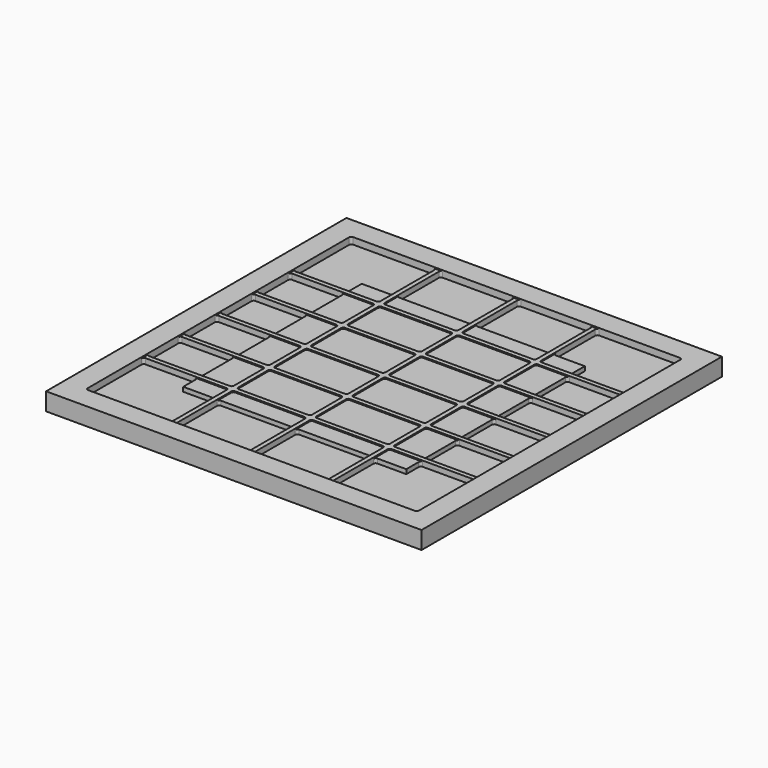
from build123d import *

# Parameters (mm, degrees)
F1_DEPTH = 7.5
F2_DEPTH = 7
F3_DEPTH = 5
F0_W     = 170
F0_H     = 170
F4_DEPTH = 8


with BuildPart() as f1:
    # F0 (on Top) → F1 (new body)
    with BuildSketch(Plane.XY):
        with BuildLine():
            Line((36.408, 43.47), (36.408, 50.5))
            Line((36.408, 50.5), (36.408, 51.5))
            Line((36.408, 51.5), (36.408, 74))
            ThreePointArc((36.408, 74), (36.700893, 74.707107), (37.408, 75))
            Line((37.408, 75), (33.408, 75))
            ThreePointArc((33.408, 75), (34.115107, 74.707107), (34.408, 74))
            Line((34.408, 74), (34.408, 51.5))
            Line((34.408, 51.5), (34.408, 50.5))
            Line((34.408, 50.5), (34.408, 43.47))
            ThreePointArc((34.408, 43.47), (34.115107, 42.762893), (33.408, 42.47))
            Line((33.408, 42.47), (2, 42.47))
            ThreePointArc((2, 42.47), (1.292893, 42.762893), (1, 43.47))
            Line((1, 43.47), (1, 50.5))
            Line((1, 50.5), (1, 51.5))
            Line((1, 51.5), (1, 74))
            ThreePointArc((1, 74), (1.292893, 74.707107), (2, 75))
            Line((2, 75), (-2, 75))
            ThreePointArc((-2, 75), (-1.292893, 74.707107), (-1, 74))
            Line((-1, 74), (-1, 51.5))
            Line((-1, 51.5), (-1, 50.5))
            Line((-1, 50.5), (-1, 43.47))
            ThreePointArc((-1, 43.47), (-1.292893, 42.762893), (-2, 42.47))
            Line((-2, 42.47), (-33.408, 42.47))
            ThreePointArc((-33.408, 42.47), (-34.115107, 42.762893), (-34.408, 43.47))
            Line((-34.408, 43.47), (-34.408, 50.5))
            Line((-34.408, 50.5), (-34.408, 51.5))
            Line((-34.408, 51.5), (-34.408, 74))
            ThreePointArc((-34.408, 74), (-34.115107, 74.707107), (-33.408, 75))
            Line((-33.408, 75), (-37.408, 75))
            ThreePointArc((-37.408, 75), (-36.700893, 74.707107), (-36.408, 74))
            Line((-36.408, 74), (-36.408, 51.5))
            Line((-36.408, 51.5), (-36.408, 50.5))
            Line((-36.408, 50.5), (-36.408, 43.47))
            ThreePointArc((-36.408, 43.47), (-36.700893, 42.762893), (-37.408, 42.47))
            Line((-37.408, 42.47), (-50.5, 42.47))
            Line((-50.5, 42.47), (-51.5, 42.47))
            Line((-51.5, 42.47), (-74, 42.47))
            ThreePointArc((-74, 42.47), (-74.707107, 42.762893), (-75, 43.47))
            Line((-75, 43.47), (-75, 39.47))
            ThreePointArc((-75, 39.47), (-74.707107, 40.177107), (-74, 40.47))
            Line((-74, 40.47), (-51.5, 40.47))
            Line((-51.5, 40.47), (-50.5, 40.47))
            Line((-50.5, 40.47), (-37.408, 40.47))
            ThreePointArc((-37.408, 40.47), (-36.700893, 40.177107), (-36.408, 39.47))
            Line((-36.408, 39.47), (-36.408, 22.735))
            ThreePointArc((-36.408, 22.735), (-36.700893, 22.027893), (-37.408, 21.735))
            Line((-37.408, 21.735), (-50.5, 21.735))
            Line((-50.5, 21.735), (-51.5, 21.735))
            Line((-51.5, 21.735), (-74, 21.735))
            ThreePointArc((-74, 21.735), (-74.707107, 22.027893), (-75, 22.735))
            Line((-75, 22.735), (-75, 18.735))
            ThreePointArc((-75, 18.735), (-74.707107, 19.442107), (-74, 19.735))
            Line((-74, 19.735), (-51.5, 19.735))
            Line((-51.5, 19.735), (-50.5, 19.735))
            Line((-50.5, 19.735), (-37.408, 19.735))
            ThreePointArc((-37.408, 19.735), (-36.700893, 19.442107), (-36.408, 18.735))
            Line((-36.408, 18.735), (-36.408, 2))
            ThreePointArc((-36.408, 2), (-36.700893, 1.292893), (-37.408, 1))
            Line((-37.408, 1), (-50.5, 1))
            Line((-50.5, 1), (-51.5, 1))
            Line((-51.5, 1), (-74, 1))
            ThreePointArc((-74, 1), (-74.707107, 1.292893), (-75, 2))
            Line((-75, 2), (-75, -2))
            ThreePointArc((-75, -2), (-74.707107, -1.292893), (-74, -1))
            Line((-74, -1), (-51.5, -1))
            Line((-51.5, -1), (-50.5, -1))
            Line((-50.5, -1), (-37.408, -1))
            ThreePointArc((-37.408, -1), (-36.700893, -1.292893), (-36.408, -2))
            Line((-36.408, -2), (-36.408, -18.735))
            ThreePointArc((-36.408, -18.735), (-36.700893, -19.442107), (-37.408, -19.735))
            Line((-37.408, -19.735), (-50.5, -19.735))
            Line((-50.5, -19.735), (-51.5, -19.735))
            Line((-51.5, -19.735), (-74, -19.735))
            ThreePointArc((-74, -19.735), (-74.707107, -19.442107), (-75, -18.735))
            Line((-75, -18.735), (-75, -22.735))
            ThreePointArc((-75, -22.735), (-74.707107, -22.027893), (-74, -21.735))
            Line((-74, -21.735), (-51.5, -21.735))
            Line((-51.5, -21.735), (-50.5, -21.735))
            Line((-50.5, -21.735), (-37.408, -21.735))
            ThreePointArc((-37.408, -21.735), (-36.700893, -22.027893), (-36.408, -22.735))
            Line((-36.408, -22.735), (-36.408, -39.47))
            ThreePointArc((-36.408, -39.47), (-36.700893, -40.177107), (-37.408, -40.47))
            Line((-37.408, -40.47), (-50.5, -40.47))
            Line((-50.5, -40.47), (-51.5, -40.47))
            Line((-51.5, -40.47), (-74, -40.47))
            ThreePointArc((-74, -40.47), (-74.707107, -40.177107), (-75, -39.47))
            Line((-75, -39.47), (-75, -43.47))
            ThreePointArc((-75, -43.47), (-74.707107, -42.762893), (-74, -42.47))
            Line((-74, -42.47), (-51.5, -42.47))
            Line((-51.5, -42.47), (-50.5, -42.47))
            Line((-50.5, -42.47), (-37.408, -42.47))
            ThreePointArc((-37.408, -42.47), (-36.700893, -42.762893), (-36.408, -43.47))
            Line((-36.408, -43.47), (-36.408, -50.5))
            Line((-36.408, -50.5), (-36.408, -51.5))
            Line((-36.408, -51.5), (-36.408, -74))
            ThreePointArc((-36.408, -74), (-36.700893, -74.707107), (-37.408, -75))
            Line((-37.408, -75), (-33.408, -75))
            ThreePointArc((-33.408, -75), (-34.115107, -74.707107), (-34.408, -74))
            Line((-34.408, -74), (-34.408, -51.5))
            Line((-34.408, -51.5), (-34.408, -50.5))
            Line((-34.408, -50.5), (-34.408, -43.47))
            ThreePointArc((-34.408, -43.47), (-34.115107, -42.762893), (-33.408, -42.47))
            Line((-33.408, -42.47), (-2, -42.47))
            ThreePointArc((-2, -42.47), (-1.292893, -42.762893), (-1, -43.47))
            Line((-1, -43.47), (-1, -50.5))
            Line((-1, -50.5), (-1, -51.5))
            Line((-1, -51.5), (-1, -74))
            ThreePointArc((-1, -74), (-1.292893, -74.707107), (-2, -75))
            Line((-2, -75), (2, -75))
            ThreePointArc((2, -75), (1.292893, -74.707107), (1, -74))
            Line((1, -74), (1, -51.5))
            Line((1, -51.5), (1, -50.5))
            Line((1, -50.5), (1, -43.47))
            ThreePointArc((1, -43.47), (1.292893, -42.762893), (2, -42.47))
            Line((2, -42.47), (33.408, -42.47))
            ThreePointArc((33.408, -42.47), (34.115107, -42.762893), (34.408, -43.47))
            Line((34.408, -43.47), (34.408, -50.5))
            Line((34.408, -50.5), (34.408, -51.5))
            Line((34.408, -51.5), (34.408, -74))
            ThreePointArc((34.408, -74), (34.115107, -74.707107), (33.408, -75))
            Line((33.408, -75), (37.408, -75))
            ThreePointArc((37.408, -75), (36.700893, -74.707107), (36.408, -74))
            Line((36.408, -74), (36.408, -51.5))
            Line((36.408, -51.5), (36.408, -50.5))
            Line((36.408, -50.5), (36.408, -43.47))
            ThreePointArc((36.408, -43.47), (36.700893, -42.762893), (37.408, -42.47))
            Line((37.408, -42.47), (50.5, -42.47))
            Line((50.5, -42.47), (51.5, -42.47))
            Line((51.5, -42.47), (74, -42.47))
            ThreePointArc((74, -42.47), (74.707107, -42.762893), (75, -43.47))
            Line((75, -43.47), (75, -39.47))
            ThreePointArc((75, -39.47), (74.707107, -40.177107), (74, -40.47))
            Line((74, -40.47), (51.5, -40.47))
            Line((51.5, -40.47), (50.5, -40.47))
            Line((50.5, -40.47), (37.408, -40.47))
            ThreePointArc((37.408, -40.47), (36.700893, -40.177107), (36.408, -39.47))
            Line((36.408, -39.47), (36.408, -22.735))
            ThreePointArc((36.408, -22.735), (36.700893, -22.027893), (37.408, -21.735))
            Line((37.408, -21.735), (50.5, -21.735))
            Line((50.5, -21.735), (51.5, -21.735))
            Line((51.5, -21.735), (74, -21.735))
            ThreePointArc((74, -21.735), (74.707107, -22.027893), (75, -22.735))
            Line((75, -22.735), (75, -18.735))
            ThreePointArc((75, -18.735), (74.707107, -19.442107), (74, -19.735))
            Line((74, -19.735), (51.5, -19.735))
            Line((51.5, -19.735), (50.5, -19.735))
            Line((50.5, -19.735), (37.408, -19.735))
            ThreePointArc((37.408, -19.735), (36.700893, -19.442107), (36.408, -18.735))
            Line((36.408, -18.735), (36.408, -2))
            ThreePointArc((36.408, -2), (36.700893, -1.292893), (37.408, -1))
            Line((37.408, -1), (50.5, -1))
            Line((50.5, -1), (51.5, -1))
            Line((51.5, -1), (74, -1))
            ThreePointArc((74, -1), (74.707107, -1.292893), (75, -2))
            Line((75, -2), (75, 2))
            ThreePointArc((75, 2), (74.707107, 1.292893), (74, 1))
            Line((74, 1), (51.5, 1))
            Line((51.5, 1), (50.5, 1))
            Line((50.5, 1), (37.408, 1))
            ThreePointArc((37.408, 1), (36.700893, 1.292893), (36.408, 2))
            Line((36.408, 2), (36.408, 18.735))
            ThreePointArc((36.408, 18.735), (36.700893, 19.442107), (37.408, 19.735))
            Line((37.408, 19.735), (50.5, 19.735))
            Line((50.5, 19.735), (51.5, 19.735))
            Line((51.5, 19.735), (74, 19.735))
            ThreePointArc((74, 19.735), (74.707107, 19.442107), (75, 18.735))
            Line((75, 18.735), (75, 22.735))
            ThreePointArc((75, 22.735), (74.707107, 22.027893), (74, 21.735))
            Line((74, 21.735), (51.5, 21.735))
            Line((51.5, 21.735), (50.5, 21.735))
            Line((50.5, 21.735), (37.408, 21.735))
            ThreePointArc((37.408, 21.735), (36.700893, 22.027893), (36.408, 22.735))
            Line((36.408, 22.735), (36.408, 39.47))
            ThreePointArc((36.408, 39.47), (36.700893, 40.177107), (37.408, 40.47))
            Line((37.408, 40.47), (50.5, 40.47))
            Line((50.5, 40.47), (51.5, 40.47))
            Line((51.5, 40.47), (74, 40.47))
            ThreePointArc((74, 40.47), (74.707107, 40.177107), (75, 39.47))
            Line((75, 39.47), (75, 43.47))
            ThreePointArc((75, 43.47), (74.707107, 42.762893), (74, 42.47))
            Line((74, 42.47), (51.5, 42.47))
            Line((51.5, 42.47), (50.5, 42.47))
            Line((50.5, 42.47), (37.408, 42.47))
            ThreePointArc((37.408, 42.47), (36.700893, 42.762893), (36.408, 43.47))
        make_face()
        with BuildLine():
            Line((-33.408, -21.735), (-2, -21.735))
            ThreePointArc((-2, -21.735), (-1.292893, -22.027893), (-1, -22.735))
            Line((-1, -22.735), (-1, -39.47))
            ThreePointArc((-1, -39.47), (-1.292893, -40.177107), (-2, -40.47))
            Line((-2, -40.47), (-33.408, -40.47))
            ThreePointArc((-33.408, -40.47), (-34.115107, -40.177107), (-34.408, -39.47))
            Line((-34.408, -39.47), (-34.408, -22.735))
            ThreePointArc((-34.408, -22.735), (-34.115107, -22.027893), (-33.408, -21.735))
        make_face(mode=Mode.SUBTRACT)
        with BuildLine():
            Line((-1, -2), (-1, -18.735))
            ThreePointArc((-1, -18.735), (-1.292893, -19.442107), (-2, -19.735))
            Line((-2, -19.735), (-33.408, -19.735))
            ThreePointArc((-33.408, -19.735), (-34.115107, -19.442107), (-34.408, -18.735))
            Line((-34.408, -18.735), (-34.408, -2))
            ThreePointArc((-34.408, -2), (-34.115107, -1.292893), (-33.408, -1))
            Line((-33.408, -1), (-2, -1))
            ThreePointArc((-2, -1), (-1.292893, -1.292893), (-1, -2))
        make_face(mode=Mode.SUBTRACT)
        with BuildLine():
            ThreePointArc((1, -22.735), (1.292893, -22.027893), (2, -21.735))
            Line((2, -21.735), (33.408, -21.735))
            ThreePointArc((33.408, -21.735), (34.115107, -22.027893), (34.408, -22.735))
            Line((34.408, -22.735), (34.408, -39.47))
            ThreePointArc((34.408, -39.47), (34.115107, -40.177107), (33.408, -40.47))
            Line((33.408, -40.47), (2, -40.47))
            ThreePointArc((2, -40.47), (1.292893, -40.177107), (1, -39.47))
            Line((1, -39.47), (1, -22.735))
        make_face(mode=Mode.SUBTRACT)
        with BuildLine():
            ThreePointArc((34.408, -18.735), (34.115107, -19.442107), (33.408, -19.735))
            Line((33.408, -19.735), (2, -19.735))
            ThreePointArc((2, -19.735), (1.292893, -19.442107), (1, -18.735))
            Line((1, -18.735), (1, -2))
            ThreePointArc((1, -2), (1.292893, -1.292893), (2, -1))
            Line((2, -1), (33.408, -1))
            ThreePointArc((33.408, -1), (34.115107, -1.292893), (34.408, -2))
            Line((34.408, -2), (34.408, -18.735))
        make_face(mode=Mode.SUBTRACT)
        with BuildLine():
            Line((-2, 1), (-33.408, 1))
            ThreePointArc((-33.408, 1), (-34.115107, 1.292893), (-34.408, 2))
            Line((-34.408, 2), (-34.408, 18.735))
            ThreePointArc((-34.408, 18.735), (-34.115107, 19.442107), (-33.408, 19.735))
            Line((-33.408, 19.735), (-2, 19.735))
            ThreePointArc((-2, 19.735), (-1.292893, 19.442107), (-1, 18.735))
            Line((-1, 18.735), (-1, 2))
            ThreePointArc((-1, 2), (-1.292893, 1.292893), (-2, 1))
        make_face(mode=Mode.SUBTRACT)
        with BuildLine():
            Line((-33.408, 40.47), (-2, 40.47))
            ThreePointArc((-2, 40.47), (-1.292893, 40.177107), (-1, 39.47))
            Line((-1, 39.47), (-1, 22.735))
            ThreePointArc((-1, 22.735), (-1.292893, 22.027893), (-2, 21.735))
            Line((-2, 21.735), (-33.408, 21.735))
            ThreePointArc((-33.408, 21.735), (-34.115107, 22.027893), (-34.408, 22.735))
            Line((-34.408, 22.735), (-34.408, 39.47))
            ThreePointArc((-34.408, 39.47), (-34.115107, 40.177107), (-33.408, 40.47))
        make_face(mode=Mode.SUBTRACT)
        with BuildLine():
            Line((33.408, 1), (2, 1))
            ThreePointArc((2, 1), (1.292893, 1.292893), (1, 2))
            Line((1, 2), (1, 18.735))
            ThreePointArc((1, 18.735), (1.292893, 19.442107), (2, 19.735))
            Line((2, 19.735), (33.408, 19.735))
            ThreePointArc((33.408, 19.735), (34.115107, 19.442107), (34.408, 18.735))
            Line((34.408, 18.735), (34.408, 2))
            ThreePointArc((34.408, 2), (34.115107, 1.292893), (33.408, 1))
        make_face(mode=Mode.SUBTRACT)
        with BuildLine():
            ThreePointArc((2, 21.735), (1.292893, 22.027893), (1, 22.735))
            Line((1, 22.735), (1, 39.47))
            ThreePointArc((1, 39.47), (1.292893, 40.177107), (2, 40.47))
            Line((2, 40.47), (33.408, 40.47))
            ThreePointArc((33.408, 40.47), (34.115107, 40.177107), (34.408, 39.47))
            Line((34.408, 39.47), (34.408, 22.735))
            ThreePointArc((34.408, 22.735), (34.115107, 22.027893), (33.408, 21.735))
            Line((33.408, 21.735), (2, 21.735))
        make_face(mode=Mode.SUBTRACT)
    extrude(amount=F1_DEPTH)

    # F0 (on Top) → F2 (join)
    with BuildSketch(Plane.XY):
        with BuildLine():
            Line((-37.408, -42.47), (-50.5, -42.47))
            Line((-50.5, -42.47), (-50.5, -43.47))
            Line((-50.5, -43.47), (-50.5, -50.5))
            Line((-50.5, -50.5), (-37.408, -50.5))
            Line((-37.408, -50.5), (-36.408, -50.5))
            Line((-36.408, -50.5), (-36.408, -43.47))
            ThreePointArc((-36.408, -43.47), (-36.700893, -42.762893), (-37.408, -42.47))
        make_face()
        with BuildLine():
            Line((-37.408, -21.735), (-50.5, -21.735))
            Line((-50.5, -21.735), (-50.5, -22.735))
            Line((-50.5, -22.735), (-50.5, -39.47))
            Line((-50.5, -39.47), (-50.5, -40.47))
            Line((-50.5, -40.47), (-37.408, -40.47))
            ThreePointArc((-37.408, -40.47), (-36.700893, -40.177107), (-36.408, -39.47))
            Line((-36.408, -39.47), (-36.408, -22.735))
            ThreePointArc((-36.408, -22.735), (-36.700893, -22.027893), (-37.408, -21.735))
        make_face()
        with BuildLine():
            Line((-37.408, -1), (-50.5, -1))
            Line((-50.5, -1), (-50.5, -2))
            Line((-50.5, -2), (-50.5, -18.735))
            Line((-50.5, -18.735), (-50.5, -19.735))
            Line((-50.5, -19.735), (-37.408, -19.735))
            ThreePointArc((-37.408, -19.735), (-36.700893, -19.442107), (-36.408, -18.735))
            Line((-36.408, -18.735), (-36.408, -2))
            ThreePointArc((-36.408, -2), (-36.700893, -1.292893), (-37.408, -1))
        make_face()
        with BuildLine():
            Line((-37.408, 19.735), (-50.5, 19.735))
            Line((-50.5, 19.735), (-50.5, 18.735))
            Line((-50.5, 18.735), (-50.5, 2))
            Line((-50.5, 2), (-50.5, 1))
            Line((-50.5, 1), (-37.408, 1))
            ThreePointArc((-37.408, 1), (-36.700893, 1.292893), (-36.408, 2))
            Line((-36.408, 2), (-36.408, 18.735))
            ThreePointArc((-36.408, 18.735), (-36.700893, 19.442107), (-37.408, 19.735))
        make_face()
        with BuildLine():
            Line((-37.408, 40.47), (-50.5, 40.47))
            Line((-50.5, 40.47), (-50.5, 39.47))
            Line((-50.5, 39.47), (-50.5, 22.735))
            Line((-50.5, 22.735), (-50.5, 21.735))
            Line((-50.5, 21.735), (-37.408, 21.735))
            ThreePointArc((-37.408, 21.735), (-36.700893, 22.027893), (-36.408, 22.735))
            Line((-36.408, 22.735), (-36.408, 39.47))
            ThreePointArc((-36.408, 39.47), (-36.700893, 40.177107), (-37.408, 40.47))
        make_face()
        with BuildLine():
            Line((-36.408, 43.47), (-36.408, 50.5))
            Line((-36.408, 50.5), (-37.408, 50.5))
            Line((-37.408, 50.5), (-50.5, 50.5))
            Line((-50.5, 50.5), (-50.5, 43.47))
            Line((-50.5, 43.47), (-50.5, 42.47))
            Line((-50.5, 42.47), (-37.408, 42.47))
            ThreePointArc((-37.408, 42.47), (-36.700893, 42.762893), (-36.408, 43.47))
        make_face()
        with BuildLine():
            Line((-1, 43.47), (-1, 50.5))
            Line((-1, 50.5), (-2, 50.5))
            Line((-2, 50.5), (-33.408, 50.5))
            Line((-33.408, 50.5), (-34.408, 50.5))
            Line((-34.408, 50.5), (-34.408, 43.47))
            ThreePointArc((-34.408, 43.47), (-34.115107, 42.762893), (-33.408, 42.47))
            Line((-33.408, 42.47), (-2, 42.47))
            ThreePointArc((-2, 42.47), (-1.292893, 42.762893), (-1, 43.47))
        make_face()
        with BuildLine():
            ThreePointArc((-1, 39.47), (-1.292893, 40.177107), (-2, 40.47))
            Line((-2, 40.47), (-33.408, 40.47))
            ThreePointArc((-33.408, 40.47), (-34.115107, 40.177107), (-34.408, 39.47))
            Line((-34.408, 39.47), (-34.408, 22.735))
            ThreePointArc((-34.408, 22.735), (-34.115107, 22.027893), (-33.408, 21.735))
            Line((-33.408, 21.735), (-2, 21.735))
            ThreePointArc((-2, 21.735), (-1.292893, 22.027893), (-1, 22.735))
            Line((-1, 22.735), (-1, 39.47))
        make_face()
        with BuildLine():
            ThreePointArc((-34.408, 2), (-34.115107, 1.292893), (-33.408, 1))
            Line((-33.408, 1), (-2, 1))
            ThreePointArc((-2, 1), (-1.292893, 1.292893), (-1, 2))
            Line((-1, 2), (-1, 18.735))
            ThreePointArc((-1, 18.735), (-1.292893, 19.442107), (-2, 19.735))
            Line((-2, 19.735), (-33.408, 19.735))
            ThreePointArc((-33.408, 19.735), (-34.115107, 19.442107), (-34.408, 18.735))
            Line((-34.408, 18.735), (-34.408, 2))
        make_face()
        with BuildLine():
            ThreePointArc((-2, -19.735), (-1.292893, -19.442107), (-1, -18.735))
            Line((-1, -18.735), (-1, -2))
            ThreePointArc((-1, -2), (-1.292893, -1.292893), (-2, -1))
            Line((-2, -1), (-33.408, -1))
            ThreePointArc((-33.408, -1), (-34.115107, -1.292893), (-34.408, -2))
            Line((-34.408, -2), (-34.408, -18.735))
            ThreePointArc((-34.408, -18.735), (-34.115107, -19.442107), (-33.408, -19.735))
            Line((-33.408, -19.735), (-2, -19.735))
        make_face()
        with BuildLine():
            ThreePointArc((-1, -22.735), (-1.292893, -22.027893), (-2, -21.735))
            Line((-2, -21.735), (-33.408, -21.735))
            ThreePointArc((-33.408, -21.735), (-34.115107, -22.027893), (-34.408, -22.735))
            Line((-34.408, -22.735), (-34.408, -39.47))
            ThreePointArc((-34.408, -39.47), (-34.115107, -40.177107), (-33.408, -40.47))
            Line((-33.408, -40.47), (-2, -40.47))
            ThreePointArc((-2, -40.47), (-1.292893, -40.177107), (-1, -39.47))
            Line((-1, -39.47), (-1, -22.735))
        make_face()
        with BuildLine():
            Line((-2, -50.5), (-1, -50.5))
            Line((-1, -50.5), (-1, -43.47))
            ThreePointArc((-1, -43.47), (-1.292893, -42.762893), (-2, -42.47))
            Line((-2, -42.47), (-33.408, -42.47))
            ThreePointArc((-33.408, -42.47), (-34.115107, -42.762893), (-34.408, -43.47))
            Line((-34.408, -43.47), (-34.408, -50.5))
            Line((-34.408, -50.5), (-33.408, -50.5))
            Line((-33.408, -50.5), (-2, -50.5))
        make_face()
        with BuildLine():
            Line((33.408, -50.5), (34.408, -50.5))
            Line((34.408, -50.5), (34.408, -43.47))
            ThreePointArc((34.408, -43.47), (34.115107, -42.762893), (33.408, -42.47))
            Line((33.408, -42.47), (2, -42.47))
            ThreePointArc((2, -42.47), (1.292893, -42.762893), (1, -43.47))
            Line((1, -43.47), (1, -50.5))
            Line((1, -50.5), (2, -50.5))
            Line((2, -50.5), (33.408, -50.5))
        make_face()
        with BuildLine():
            Line((33.408, -21.735), (2, -21.735))
            ThreePointArc((2, -21.735), (1.292893, -22.027893), (1, -22.735))
            Line((1, -22.735), (1, -39.47))
            ThreePointArc((1, -39.47), (1.292893, -40.177107), (2, -40.47))
            Line((2, -40.47), (33.408, -40.47))
            ThreePointArc((33.408, -40.47), (34.115107, -40.177107), (34.408, -39.47))
            Line((34.408, -39.47), (34.408, -22.735))
            ThreePointArc((34.408, -22.735), (34.115107, -22.027893), (33.408, -21.735))
        make_face()
        with BuildLine():
            Line((2, -19.735), (33.408, -19.735))
            ThreePointArc((33.408, -19.735), (34.115107, -19.442107), (34.408, -18.735))
            Line((34.408, -18.735), (34.408, -2))
            ThreePointArc((34.408, -2), (34.115107, -1.292893), (33.408, -1))
            Line((33.408, -1), (2, -1))
            ThreePointArc((2, -1), (1.292893, -1.292893), (1, -2))
            Line((1, -2), (1, -18.735))
            ThreePointArc((1, -18.735), (1.292893, -19.442107), (2, -19.735))
        make_face()
        with BuildLine():
            ThreePointArc((1, 2), (1.292893, 1.292893), (2, 1))
            Line((2, 1), (33.408, 1))
            ThreePointArc((33.408, 1), (34.115107, 1.292893), (34.408, 2))
            Line((34.408, 2), (34.408, 18.735))
            ThreePointArc((34.408, 18.735), (34.115107, 19.442107), (33.408, 19.735))
            Line((33.408, 19.735), (2, 19.735))
            ThreePointArc((2, 19.735), (1.292893, 19.442107), (1, 18.735))
            Line((1, 18.735), (1, 2))
        make_face()
        with BuildLine():
            Line((1, 39.47), (1, 22.735))
            ThreePointArc((1, 22.735), (1.292893, 22.027893), (2, 21.735))
            Line((2, 21.735), (33.408, 21.735))
            ThreePointArc((33.408, 21.735), (34.115107, 22.027893), (34.408, 22.735))
            Line((34.408, 22.735), (34.408, 39.47))
            ThreePointArc((34.408, 39.47), (34.115107, 40.177107), (33.408, 40.47))
            Line((33.408, 40.47), (2, 40.47))
            ThreePointArc((2, 40.47), (1.292893, 40.177107), (1, 39.47))
        make_face()
        with BuildLine():
            Line((34.408, 43.47), (34.408, 50.5))
            Line((34.408, 50.5), (33.408, 50.5))
            Line((33.408, 50.5), (2, 50.5))
            Line((2, 50.5), (1, 50.5))
            Line((1, 50.5), (1, 43.47))
            ThreePointArc((1, 43.47), (1.292893, 42.762893), (2, 42.47))
            Line((2, 42.47), (33.408, 42.47))
            ThreePointArc((33.408, 42.47), (34.115107, 42.762893), (34.408, 43.47))
        make_face()
        with BuildLine():
            Line((37.408, 50.5), (36.408, 50.5))
            Line((36.408, 50.5), (36.408, 43.47))
            ThreePointArc((36.408, 43.47), (36.700893, 42.762893), (37.408, 42.47))
            Line((37.408, 42.47), (50.5, 42.47))
            Line((50.5, 42.47), (50.5, 43.47))
            Line((50.5, 43.47), (50.5, 50.5))
            Line((50.5, 50.5), (37.408, 50.5))
        make_face()
        with BuildLine():
            Line((50.5, 39.47), (50.5, 40.47))
            Line((50.5, 40.47), (37.408, 40.47))
            ThreePointArc((37.408, 40.47), (36.700893, 40.177107), (36.408, 39.47))
            Line((36.408, 39.47), (36.408, 22.735))
            ThreePointArc((36.408, 22.735), (36.700893, 22.027893), (37.408, 21.735))
            Line((37.408, 21.735), (50.5, 21.735))
            Line((50.5, 21.735), (50.5, 22.735))
            Line((50.5, 22.735), (50.5, 39.47))
        make_face()
        with BuildLine():
            Line((50.5, 18.735), (50.5, 19.735))
            Line((50.5, 19.735), (37.408, 19.735))
            ThreePointArc((37.408, 19.735), (36.700893, 19.442107), (36.408, 18.735))
            Line((36.408, 18.735), (36.408, 2))
            ThreePointArc((36.408, 2), (36.700893, 1.292893), (37.408, 1))
            Line((37.408, 1), (50.5, 1))
            Line((50.5, 1), (50.5, 2))
            Line((50.5, 2), (50.5, 18.735))
        make_face()
        with BuildLine():
            Line((50.5, -2), (50.5, -1))
            Line((50.5, -1), (37.408, -1))
            ThreePointArc((37.408, -1), (36.700893, -1.292893), (36.408, -2))
            Line((36.408, -2), (36.408, -18.735))
            ThreePointArc((36.408, -18.735), (36.700893, -19.442107), (37.408, -19.735))
            Line((37.408, -19.735), (50.5, -19.735))
            Line((50.5, -19.735), (50.5, -18.735))
            Line((50.5, -18.735), (50.5, -2))
        make_face()
        with BuildLine():
            Line((50.5, -22.735), (50.5, -21.735))
            Line((50.5, -21.735), (37.408, -21.735))
            ThreePointArc((37.408, -21.735), (36.700893, -22.027893), (36.408, -22.735))
            Line((36.408, -22.735), (36.408, -39.47))
            ThreePointArc((36.408, -39.47), (36.700893, -40.177107), (37.408, -40.47))
            Line((37.408, -40.47), (50.5, -40.47))
            Line((50.5, -40.47), (50.5, -39.47))
            Line((50.5, -39.47), (50.5, -22.735))
        make_face()
        with BuildLine():
            Line((50.5, -43.47), (50.5, -42.47))
            Line((50.5, -42.47), (37.408, -42.47))
            ThreePointArc((37.408, -42.47), (36.700893, -42.762893), (36.408, -43.47))
            Line((36.408, -43.47), (36.408, -50.5))
            Line((36.408, -50.5), (37.408, -50.5))
            Line((37.408, -50.5), (50.5, -50.5))
            Line((50.5, -50.5), (50.5, -43.47))
        make_face()
        with BuildLine():
            Line((-36.408, 50.5), (-36.408, 51.5))
            ThreePointArc((-36.408, 51.5), (-36.700893, 50.792893), (-37.408, 50.5))
            Line((-37.408, 50.5), (-36.408, 50.5))
        make_face()
        with BuildLine():
            ThreePointArc((-33.408, 50.5), (-34.115107, 50.792893), (-34.408, 51.5))
            Line((-34.408, 51.5), (-34.408, 50.5))
            Line((-34.408, 50.5), (-33.408, 50.5))
        make_face()
        with BuildLine():
            Line((-50.5, 42.47), (-50.5, 43.47))
            ThreePointArc((-50.5, 43.47), (-50.792893, 42.762893), (-51.5, 42.47))
            Line((-51.5, 42.47), (-50.5, 42.47))
        make_face()
        with BuildLine():
            Line((-50.5, 40.47), (-51.5, 40.47))
            ThreePointArc((-51.5, 40.47), (-50.792893, 40.177107), (-50.5, 39.47))
            Line((-50.5, 39.47), (-50.5, 40.47))
        make_face()
        with BuildLine():
            ThreePointArc((-50.5, 22.735), (-50.792893, 22.027893), (-51.5, 21.735))
            Line((-51.5, 21.735), (-50.5, 21.735))
            Line((-50.5, 21.735), (-50.5, 22.735))
        make_face()
        with BuildLine():
            Line((-50.5, 19.735), (-51.5, 19.735))
            ThreePointArc((-51.5, 19.735), (-50.792893, 19.442107), (-50.5, 18.735))
            Line((-50.5, 18.735), (-50.5, 19.735))
        make_face()
        with BuildLine():
            Line((-50.5, -1), (-51.5, -1))
            ThreePointArc((-51.5, -1), (-50.792893, -1.292893), (-50.5, -2))
            Line((-50.5, -2), (-50.5, -1))
        make_face()
        with BuildLine():
            ThreePointArc((-50.5, 2), (-50.792893, 1.292893), (-51.5, 1))
            Line((-51.5, 1), (-50.5, 1))
            Line((-50.5, 1), (-50.5, 2))
        make_face()
        with BuildLine():
            ThreePointArc((-50.5, -18.735), (-50.792893, -19.442107), (-51.5, -19.735))
            Line((-51.5, -19.735), (-50.5, -19.735))
            Line((-50.5, -19.735), (-50.5, -18.735))
        make_face()
        with BuildLine():
            Line((-50.5, -21.735), (-51.5, -21.735))
            ThreePointArc((-51.5, -21.735), (-50.792893, -22.027893), (-50.5, -22.735))
            Line((-50.5, -22.735), (-50.5, -21.735))
        make_face()
        with BuildLine():
            ThreePointArc((-50.5, -39.47), (-50.792893, -40.177107), (-51.5, -40.47))
            Line((-51.5, -40.47), (-50.5, -40.47))
            Line((-50.5, -40.47), (-50.5, -39.47))
        make_face()
        with BuildLine():
            Line((-50.5, -42.47), (-51.5, -42.47))
            ThreePointArc((-51.5, -42.47), (-50.792893, -42.762893), (-50.5, -43.47))
            Line((-50.5, -43.47), (-50.5, -42.47))
        make_face()
        with BuildLine():
            ThreePointArc((-37.408, -50.5), (-36.700893, -50.792893), (-36.408, -51.5))
            Line((-36.408, -51.5), (-36.408, -50.5))
            Line((-36.408, -50.5), (-37.408, -50.5))
        make_face()
        with BuildLine():
            Line((-34.408, -50.5), (-34.408, -51.5))
            ThreePointArc((-34.408, -51.5), (-34.115107, -50.792893), (-33.408, -50.5))
            Line((-33.408, -50.5), (-34.408, -50.5))
        make_face()
        with BuildLine():
            Line((1, -50.5), (1, -51.5))
            ThreePointArc((1, -51.5), (1.292893, -50.792893), (2, -50.5))
            Line((2, -50.5), (1, -50.5))
        make_face()
        with BuildLine():
            ThreePointArc((-2, -50.5), (-1.292893, -50.792893), (-1, -51.5))
            Line((-1, -51.5), (-1, -50.5))
            Line((-1, -50.5), (-2, -50.5))
        make_face()
        with BuildLine():
            ThreePointArc((36.408, -51.5), (36.700893, -50.792893), (37.408, -50.5))
            Line((37.408, -50.5), (36.408, -50.5))
            Line((36.408, -50.5), (36.408, -51.5))
        make_face()
        with BuildLine():
            ThreePointArc((33.408, -50.5), (34.115107, -50.792893), (34.408, -51.5))
            Line((34.408, -51.5), (34.408, -50.5))
            Line((34.408, -50.5), (33.408, -50.5))
        make_face()
        with BuildLine():
            ThreePointArc((50.5, -43.47), (50.792893, -42.762893), (51.5, -42.47))
            Line((51.5, -42.47), (50.5, -42.47))
            Line((50.5, -42.47), (50.5, -43.47))
        make_face()
        with BuildLine():
            Line((50.5, -40.47), (51.5, -40.47))
            ThreePointArc((51.5, -40.47), (50.792893, -40.177107), (50.5, -39.47))
            Line((50.5, -39.47), (50.5, -40.47))
        make_face()
        with BuildLine():
            Line((50.5, -19.735), (51.5, -19.735))
            ThreePointArc((51.5, -19.735), (50.792893, -19.442107), (50.5, -18.735))
            Line((50.5, -18.735), (50.5, -19.735))
        make_face()
        with BuildLine():
            ThreePointArc((50.5, -22.735), (50.792893, -22.027893), (51.5, -21.735))
            Line((51.5, -21.735), (50.5, -21.735))
            Line((50.5, -21.735), (50.5, -22.735))
        make_face()
        with BuildLine():
            Line((50.5, 1), (51.5, 1))
            ThreePointArc((51.5, 1), (50.792893, 1.292893), (50.5, 2))
            Line((50.5, 2), (50.5, 1))
        make_face()
        with BuildLine():
            ThreePointArc((50.5, -2), (50.792893, -1.292893), (51.5, -1))
            Line((51.5, -1), (50.5, -1))
            Line((50.5, -1), (50.5, -2))
        make_face()
        with BuildLine():
            Line((50.5, 21.735), (51.5, 21.735))
            ThreePointArc((51.5, 21.735), (50.792893, 22.027893), (50.5, 22.735))
            Line((50.5, 22.735), (50.5, 21.735))
        make_face()
        with BuildLine():
            ThreePointArc((50.5, 18.735), (50.792893, 19.442107), (51.5, 19.735))
            Line((51.5, 19.735), (50.5, 19.735))
            Line((50.5, 19.735), (50.5, 18.735))
        make_face()
        with BuildLine():
            Line((50.5, 43.47), (50.5, 42.47))
            Line((50.5, 42.47), (51.5, 42.47))
            ThreePointArc((51.5, 42.47), (50.792893, 42.762893), (50.5, 43.47))
        make_face()
        with BuildLine():
            ThreePointArc((50.5, 39.47), (50.792893, 40.177107), (51.5, 40.47))
            Line((51.5, 40.47), (50.5, 40.47))
            Line((50.5, 40.47), (50.5, 39.47))
        make_face()
        with BuildLine():
            Line((36.408, 51.5), (36.408, 50.5))
            Line((36.408, 50.5), (37.408, 50.5))
            ThreePointArc((37.408, 50.5), (36.700893, 50.792893), (36.408, 51.5))
        make_face()
        with BuildLine():
            Line((34.408, 50.5), (34.408, 51.5))
            ThreePointArc((34.408, 51.5), (34.115107, 50.792893), (33.408, 50.5))
            Line((33.408, 50.5), (34.408, 50.5))
        make_face()
        with BuildLine():
            Line((-1, 50.5), (-1, 51.5))
            ThreePointArc((-1, 51.5), (-1.292893, 50.792893), (-2, 50.5))
            Line((-2, 50.5), (-1, 50.5))
        make_face()
        with BuildLine():
            ThreePointArc((2, 50.5), (1.292893, 50.792893), (1, 51.5))
            Line((1, 51.5), (1, 50.5))
            Line((1, 50.5), (2, 50.5))
        make_face()
    extrude(amount=F2_DEPTH)

    # F0 (on Top) → F3 (join)
    with BuildSketch(Plane.XY):
        with BuildLine():
            ThreePointArc((-74, -42.47), (-74.707107, -42.762893), (-75, -43.47))
            Line((-75, -43.47), (-75, -74))
            ThreePointArc((-75, -74), (-74.707107, -74.707107), (-74, -75))
            Line((-74, -75), (-37.408, -75))
            ThreePointArc((-37.408, -75), (-36.700893, -74.707107), (-36.408, -74))
            Line((-36.408, -74), (-36.408, -51.5))
            ThreePointArc((-36.408, -51.5), (-36.700893, -50.792893), (-37.408, -50.5))
            Line((-37.408, -50.5), (-50.5, -50.5))
            Line((-50.5, -50.5), (-50.5, -43.47))
            ThreePointArc((-50.5, -43.47), (-50.792893, -42.762893), (-51.5, -42.47))
            Line((-51.5, -42.47), (-74, -42.47))
        make_face()
        with BuildLine():
            ThreePointArc((-74, -21.735), (-74.707107, -22.027893), (-75, -22.735))
            Line((-75, -22.735), (-75, -39.47))
            ThreePointArc((-75, -39.47), (-74.707107, -40.177107), (-74, -40.47))
            Line((-74, -40.47), (-51.5, -40.47))
            ThreePointArc((-51.5, -40.47), (-50.792893, -40.177107), (-50.5, -39.47))
            Line((-50.5, -39.47), (-50.5, -22.735))
            ThreePointArc((-50.5, -22.735), (-50.792893, -22.027893), (-51.5, -21.735))
            Line((-51.5, -21.735), (-74, -21.735))
        make_face()
        with BuildLine():
            ThreePointArc((-74, -1), (-74.707107, -1.292893), (-75, -2))
            Line((-75, -2), (-75, -18.735))
            ThreePointArc((-75, -18.735), (-74.707107, -19.442107), (-74, -19.735))
            Line((-74, -19.735), (-51.5, -19.735))
            ThreePointArc((-51.5, -19.735), (-50.792893, -19.442107), (-50.5, -18.735))
            Line((-50.5, -18.735), (-50.5, -2))
            ThreePointArc((-50.5, -2), (-50.792893, -1.292893), (-51.5, -1))
            Line((-51.5, -1), (-74, -1))
        make_face()
        with BuildLine():
            ThreePointArc((-74, 19.735), (-74.707107, 19.442107), (-75, 18.735))
            Line((-75, 18.735), (-75, 2))
            ThreePointArc((-75, 2), (-74.707107, 1.292893), (-74, 1))
            Line((-74, 1), (-51.5, 1))
            ThreePointArc((-51.5, 1), (-50.792893, 1.292893), (-50.5, 2))
            Line((-50.5, 2), (-50.5, 18.735))
            ThreePointArc((-50.5, 18.735), (-50.792893, 19.442107), (-51.5, 19.735))
            Line((-51.5, 19.735), (-74, 19.735))
        make_face()
        with BuildLine():
            ThreePointArc((-74, 40.47), (-74.707107, 40.177107), (-75, 39.47))
            Line((-75, 39.47), (-75, 22.735))
            ThreePointArc((-75, 22.735), (-74.707107, 22.027893), (-74, 21.735))
            Line((-74, 21.735), (-51.5, 21.735))
            ThreePointArc((-51.5, 21.735), (-50.792893, 22.027893), (-50.5, 22.735))
            Line((-50.5, 22.735), (-50.5, 39.47))
            ThreePointArc((-50.5, 39.47), (-50.792893, 40.177107), (-51.5, 40.47))
            Line((-51.5, 40.47), (-74, 40.47))
        make_face()
        with BuildLine():
            ThreePointArc((-36.408, 74), (-36.700893, 74.707107), (-37.408, 75))
            Line((-37.408, 75), (-74, 75))
            ThreePointArc((-74, 75), (-74.707107, 74.707107), (-75, 74))
            Line((-75, 74), (-75, 43.47))
            ThreePointArc((-75, 43.47), (-74.707107, 42.762893), (-74, 42.47))
            Line((-74, 42.47), (-51.5, 42.47))
            ThreePointArc((-51.5, 42.47), (-50.792893, 42.762893), (-50.5, 43.47))
            Line((-50.5, 43.47), (-50.5, 50.5))
            Line((-50.5, 50.5), (-37.408, 50.5))
            ThreePointArc((-37.408, 50.5), (-36.700893, 50.792893), (-36.408, 51.5))
            Line((-36.408, 51.5), (-36.408, 74))
        make_face()
        with BuildLine():
            ThreePointArc((-1, 74), (-1.292893, 74.707107), (-2, 75))
            Line((-2, 75), (-33.408, 75))
            ThreePointArc((-33.408, 75), (-34.115107, 74.707107), (-34.408, 74))
            Line((-34.408, 74), (-34.408, 51.5))
            ThreePointArc((-34.408, 51.5), (-34.115107, 50.792893), (-33.408, 50.5))
            Line((-33.408, 50.5), (-2, 50.5))
            ThreePointArc((-2, 50.5), (-1.292893, 50.792893), (-1, 51.5))
            Line((-1, 51.5), (-1, 74))
        make_face()
        with BuildLine():
            ThreePointArc((34.408, 74), (34.115107, 74.707107), (33.408, 75))
            Line((33.408, 75), (2, 75))
            ThreePointArc((2, 75), (1.292893, 74.707107), (1, 74))
            Line((1, 74), (1, 51.5))
            ThreePointArc((1, 51.5), (1.292893, 50.792893), (2, 50.5))
            Line((2, 50.5), (33.408, 50.5))
            ThreePointArc((33.408, 50.5), (34.115107, 50.792893), (34.408, 51.5))
            Line((34.408, 51.5), (34.408, 74))
        make_face()
        with BuildLine():
            ThreePointArc((36.408, 51.5), (36.700893, 50.792893), (37.408, 50.5))
            Line((37.408, 50.5), (50.5, 50.5))
            Line((50.5, 50.5), (50.5, 43.47))
            ThreePointArc((50.5, 43.47), (50.792893, 42.762893), (51.5, 42.47))
            Line((51.5, 42.47), (74, 42.47))
            ThreePointArc((74, 42.47), (74.707107, 42.762893), (75, 43.47))
            Line((75, 43.47), (75, 74))
            ThreePointArc((75, 74), (74.707107, 74.707107), (74, 75))
            Line((74, 75), (37.408, 75))
            ThreePointArc((37.408, 75), (36.700893, 74.707107), (36.408, 74))
            Line((36.408, 74), (36.408, 51.5))
        make_face()
        with BuildLine():
            Line((75, 22.735), (75, 39.47))
            ThreePointArc((75, 39.47), (74.707107, 40.177107), (74, 40.47))
            Line((74, 40.47), (51.5, 40.47))
            ThreePointArc((51.5, 40.47), (50.792893, 40.177107), (50.5, 39.47))
            Line((50.5, 39.47), (50.5, 22.735))
            ThreePointArc((50.5, 22.735), (50.792893, 22.027893), (51.5, 21.735))
            Line((51.5, 21.735), (74, 21.735))
            ThreePointArc((74, 21.735), (74.707107, 22.027893), (75, 22.735))
        make_face()
        with BuildLine():
            Line((75, 2), (75, 18.735))
            ThreePointArc((75, 18.735), (74.707107, 19.442107), (74, 19.735))
            Line((74, 19.735), (51.5, 19.735))
            ThreePointArc((51.5, 19.735), (50.792893, 19.442107), (50.5, 18.735))
            Line((50.5, 18.735), (50.5, 2))
            ThreePointArc((50.5, 2), (50.792893, 1.292893), (51.5, 1))
            Line((51.5, 1), (74, 1))
            ThreePointArc((74, 1), (74.707107, 1.292893), (75, 2))
        make_face()
        with BuildLine():
            Line((75, -18.735), (75, -2))
            ThreePointArc((75, -2), (74.707107, -1.292893), (74, -1))
            Line((74, -1), (51.5, -1))
            ThreePointArc((51.5, -1), (50.792893, -1.292893), (50.5, -2))
            Line((50.5, -2), (50.5, -18.735))
            ThreePointArc((50.5, -18.735), (50.792893, -19.442107), (51.5, -19.735))
            Line((51.5, -19.735), (74, -19.735))
            ThreePointArc((74, -19.735), (74.707107, -19.442107), (75, -18.735))
        make_face()
        with BuildLine():
            Line((75, -39.47), (75, -22.735))
            ThreePointArc((75, -22.735), (74.707107, -22.027893), (74, -21.735))
            Line((74, -21.735), (51.5, -21.735))
            ThreePointArc((51.5, -21.735), (50.792893, -22.027893), (50.5, -22.735))
            Line((50.5, -22.735), (50.5, -39.47))
            ThreePointArc((50.5, -39.47), (50.792893, -40.177107), (51.5, -40.47))
            Line((51.5, -40.47), (74, -40.47))
            ThreePointArc((74, -40.47), (74.707107, -40.177107), (75, -39.47))
        make_face()
        with BuildLine():
            Line((75, -74), (75, -43.47))
            ThreePointArc((75, -43.47), (74.707107, -42.762893), (74, -42.47))
            Line((74, -42.47), (51.5, -42.47))
            ThreePointArc((51.5, -42.47), (50.792893, -42.762893), (50.5, -43.47))
            Line((50.5, -43.47), (50.5, -50.5))
            Line((50.5, -50.5), (37.408, -50.5))
            ThreePointArc((37.408, -50.5), (36.700893, -50.792893), (36.408, -51.5))
            Line((36.408, -51.5), (36.408, -74))
            ThreePointArc((36.408, -74), (36.700893, -74.707107), (37.408, -75))
            Line((37.408, -75), (74, -75))
            ThreePointArc((74, -75), (74.707107, -74.707107), (75, -74))
        make_face()
        with BuildLine():
            Line((2, -75), (33.408, -75))
            ThreePointArc((33.408, -75), (34.115107, -74.707107), (34.408, -74))
            Line((34.408, -74), (34.408, -51.5))
            ThreePointArc((34.408, -51.5), (34.115107, -50.792893), (33.408, -50.5))
            Line((33.408, -50.5), (2, -50.5))
            ThreePointArc((2, -50.5), (1.292893, -50.792893), (1, -51.5))
            Line((1, -51.5), (1, -74))
            ThreePointArc((1, -74), (1.292893, -74.707107), (2, -75))
        make_face()
        with BuildLine():
            Line((-33.408, -75), (-2, -75))
            ThreePointArc((-2, -75), (-1.292893, -74.707107), (-1, -74))
            Line((-1, -74), (-1, -51.5))
            ThreePointArc((-1, -51.5), (-1.292893, -50.792893), (-2, -50.5))
            Line((-2, -50.5), (-33.408, -50.5))
            ThreePointArc((-33.408, -50.5), (-34.115107, -50.792893), (-34.408, -51.5))
            Line((-34.408, -51.5), (-34.408, -74))
            ThreePointArc((-34.408, -74), (-34.115107, -74.707107), (-33.408, -75))
        make_face()
        with BuildLine():
            Line((-50.5, 42.47), (-50.5, 43.47))
            ThreePointArc((-50.5, 43.47), (-50.792893, 42.762893), (-51.5, 42.47))
            Line((-51.5, 42.47), (-50.5, 42.47))
        make_face()
        with BuildLine():
            Line((-50.5, 40.47), (-51.5, 40.47))
            ThreePointArc((-51.5, 40.47), (-50.792893, 40.177107), (-50.5, 39.47))
            Line((-50.5, 39.47), (-50.5, 40.47))
        make_face()
        with BuildLine():
            Line((-36.408, 50.5), (-36.408, 51.5))
            ThreePointArc((-36.408, 51.5), (-36.700893, 50.792893), (-37.408, 50.5))
            Line((-37.408, 50.5), (-36.408, 50.5))
        make_face()
        with BuildLine():
            ThreePointArc((-33.408, 50.5), (-34.115107, 50.792893), (-34.408, 51.5))
            Line((-34.408, 51.5), (-34.408, 50.5))
            Line((-34.408, 50.5), (-33.408, 50.5))
        make_face()
        with BuildLine():
            ThreePointArc((-50.5, 22.735), (-50.792893, 22.027893), (-51.5, 21.735))
            Line((-51.5, 21.735), (-50.5, 21.735))
            Line((-50.5, 21.735), (-50.5, 22.735))
        make_face()
        with BuildLine():
            Line((-50.5, 19.735), (-51.5, 19.735))
            ThreePointArc((-51.5, 19.735), (-50.792893, 19.442107), (-50.5, 18.735))
            Line((-50.5, 18.735), (-50.5, 19.735))
        make_face()
        with BuildLine():
            ThreePointArc((-50.5, 2), (-50.792893, 1.292893), (-51.5, 1))
            Line((-51.5, 1), (-50.5, 1))
            Line((-50.5, 1), (-50.5, 2))
        make_face()
        with BuildLine():
            Line((-50.5, -1), (-51.5, -1))
            ThreePointArc((-51.5, -1), (-50.792893, -1.292893), (-50.5, -2))
            Line((-50.5, -2), (-50.5, -1))
        make_face()
        with BuildLine():
            ThreePointArc((-50.5, -18.735), (-50.792893, -19.442107), (-51.5, -19.735))
            Line((-51.5, -19.735), (-50.5, -19.735))
            Line((-50.5, -19.735), (-50.5, -18.735))
        make_face()
        with BuildLine():
            Line((-50.5, -21.735), (-51.5, -21.735))
            ThreePointArc((-51.5, -21.735), (-50.792893, -22.027893), (-50.5, -22.735))
            Line((-50.5, -22.735), (-50.5, -21.735))
        make_face()
        with BuildLine():
            Line((-50.5, -42.47), (-51.5, -42.47))
            ThreePointArc((-51.5, -42.47), (-50.792893, -42.762893), (-50.5, -43.47))
            Line((-50.5, -43.47), (-50.5, -42.47))
        make_face()
        with BuildLine():
            ThreePointArc((-50.5, -39.47), (-50.792893, -40.177107), (-51.5, -40.47))
            Line((-51.5, -40.47), (-50.5, -40.47))
            Line((-50.5, -40.47), (-50.5, -39.47))
        make_face()
        with BuildLine():
            ThreePointArc((-37.408, -50.5), (-36.700893, -50.792893), (-36.408, -51.5))
            Line((-36.408, -51.5), (-36.408, -50.5))
            Line((-36.408, -50.5), (-37.408, -50.5))
        make_face()
        with BuildLine():
            Line((-34.408, -50.5), (-34.408, -51.5))
            ThreePointArc((-34.408, -51.5), (-34.115107, -50.792893), (-33.408, -50.5))
            Line((-33.408, -50.5), (-34.408, -50.5))
        make_face()
        with BuildLine():
            ThreePointArc((-2, -50.5), (-1.292893, -50.792893), (-1, -51.5))
            Line((-1, -51.5), (-1, -50.5))
            Line((-1, -50.5), (-2, -50.5))
        make_face()
        with BuildLine():
            Line((1, -50.5), (1, -51.5))
            ThreePointArc((1, -51.5), (1.292893, -50.792893), (2, -50.5))
            Line((2, -50.5), (1, -50.5))
        make_face()
        with BuildLine():
            ThreePointArc((33.408, -50.5), (34.115107, -50.792893), (34.408, -51.5))
            Line((34.408, -51.5), (34.408, -50.5))
            Line((34.408, -50.5), (33.408, -50.5))
        make_face()
        with BuildLine():
            ThreePointArc((36.408, -51.5), (36.700893, -50.792893), (37.408, -50.5))
            Line((37.408, -50.5), (36.408, -50.5))
            Line((36.408, -50.5), (36.408, -51.5))
        make_face()
        with BuildLine():
            Line((50.5, -40.47), (51.5, -40.47))
            ThreePointArc((51.5, -40.47), (50.792893, -40.177107), (50.5, -39.47))
            Line((50.5, -39.47), (50.5, -40.47))
        make_face()
        with BuildLine():
            ThreePointArc((50.5, -43.47), (50.792893, -42.762893), (51.5, -42.47))
            Line((51.5, -42.47), (50.5, -42.47))
            Line((50.5, -42.47), (50.5, -43.47))
        make_face()
        with BuildLine():
            Line((50.5, -19.735), (51.5, -19.735))
            ThreePointArc((51.5, -19.735), (50.792893, -19.442107), (50.5, -18.735))
            Line((50.5, -18.735), (50.5, -19.735))
        make_face()
        with BuildLine():
            ThreePointArc((50.5, -22.735), (50.792893, -22.027893), (51.5, -21.735))
            Line((51.5, -21.735), (50.5, -21.735))
            Line((50.5, -21.735), (50.5, -22.735))
        make_face()
        with BuildLine():
            Line((50.5, 1), (51.5, 1))
            ThreePointArc((51.5, 1), (50.792893, 1.292893), (50.5, 2))
            Line((50.5, 2), (50.5, 1))
        make_face()
        with BuildLine():
            ThreePointArc((50.5, -2), (50.792893, -1.292893), (51.5, -1))
            Line((51.5, -1), (50.5, -1))
            Line((50.5, -1), (50.5, -2))
        make_face()
        with BuildLine():
            ThreePointArc((50.5, 18.735), (50.792893, 19.442107), (51.5, 19.735))
            Line((51.5, 19.735), (50.5, 19.735))
            Line((50.5, 19.735), (50.5, 18.735))
        make_face()
        with BuildLine():
            Line((50.5, 21.735), (51.5, 21.735))
            ThreePointArc((51.5, 21.735), (50.792893, 22.027893), (50.5, 22.735))
            Line((50.5, 22.735), (50.5, 21.735))
        make_face()
        with BuildLine():
            Line((50.5, 43.47), (50.5, 42.47))
            Line((50.5, 42.47), (51.5, 42.47))
            ThreePointArc((51.5, 42.47), (50.792893, 42.762893), (50.5, 43.47))
        make_face()
        with BuildLine():
            ThreePointArc((50.5, 39.47), (50.792893, 40.177107), (51.5, 40.47))
            Line((51.5, 40.47), (50.5, 40.47))
            Line((50.5, 40.47), (50.5, 39.47))
        make_face()
        with BuildLine():
            Line((36.408, 51.5), (36.408, 50.5))
            Line((36.408, 50.5), (37.408, 50.5))
            ThreePointArc((37.408, 50.5), (36.700893, 50.792893), (36.408, 51.5))
        make_face()
        with BuildLine():
            Line((34.408, 50.5), (34.408, 51.5))
            ThreePointArc((34.408, 51.5), (34.115107, 50.792893), (33.408, 50.5))
            Line((33.408, 50.5), (34.408, 50.5))
        make_face()
        with BuildLine():
            ThreePointArc((2, 50.5), (1.292893, 50.792893), (1, 51.5))
            Line((1, 51.5), (1, 50.5))
            Line((1, 50.5), (2, 50.5))
        make_face()
        with BuildLine():
            Line((-1, 50.5), (-1, 51.5))
            ThreePointArc((-1, 51.5), (-1.292893, 50.792893), (-2, 50.5))
            Line((-2, 50.5), (-1, 50.5))
        make_face()
    extrude(amount=F3_DEPTH)

    # F0 (on Top) → F4 (join)
    with BuildSketch(Plane.XY):
        Rectangle(F0_W, F0_H)
        with BuildLine():
            Line((33.408, 75), (37.408, 75))
            Line((37.408, 75), (74, 75))
            ThreePointArc((74, 75), (74.707107, 74.707107), (75, 74))
            Line((75, 74), (75, 43.47))
            Line((75, 43.47), (75, 39.47))
            Line((75, 39.47), (75, 22.735))
            Line((75, 22.735), (75, 18.735))
            Line((75, 18.735), (75, 2))
            Line((75, 2), (75, -2))
            Line((75, -2), (75, -18.735))
            Line((75, -18.735), (75, -22.735))
            Line((75, -22.735), (75, -39.47))
            Line((75, -39.47), (75, -43.47))
            Line((75, -43.47), (75, -74))
            ThreePointArc((75, -74), (74.707107, -74.707107), (74, -75))
            Line((74, -75), (37.408, -75))
            Line((37.408, -75), (33.408, -75))
            Line((33.408, -75), (2, -75))
            Line((2, -75), (-2, -75))
            Line((-2, -75), (-33.408, -75))
            Line((-33.408, -75), (-37.408, -75))
            Line((-37.408, -75), (-74, -75))
            ThreePointArc((-74, -75), (-74.707107, -74.707107), (-75, -74))
            Line((-75, -74), (-75, -43.47))
            Line((-75, -43.47), (-75, -39.47))
            Line((-75, -39.47), (-75, -22.735))
            Line((-75, -22.735), (-75, -18.735))
            Line((-75, -18.735), (-75, -2))
            Line((-75, -2), (-75, 2))
            Line((-75, 2), (-75, 18.735))
            Line((-75, 18.735), (-75, 22.735))
            Line((-75, 22.735), (-75, 39.47))
            Line((-75, 39.47), (-75, 43.47))
            Line((-75, 43.47), (-75, 74))
            ThreePointArc((-75, 74), (-74.707107, 74.707107), (-74, 75))
            Line((-74, 75), (-37.408, 75))
            Line((-37.408, 75), (-33.408, 75))
            Line((-33.408, 75), (-2, 75))
            Line((-2, 75), (2, 75))
            Line((2, 75), (33.408, 75))
        make_face(mode=Mode.SUBTRACT)
    extrude(amount=F4_DEPTH)


solid = f1.part
